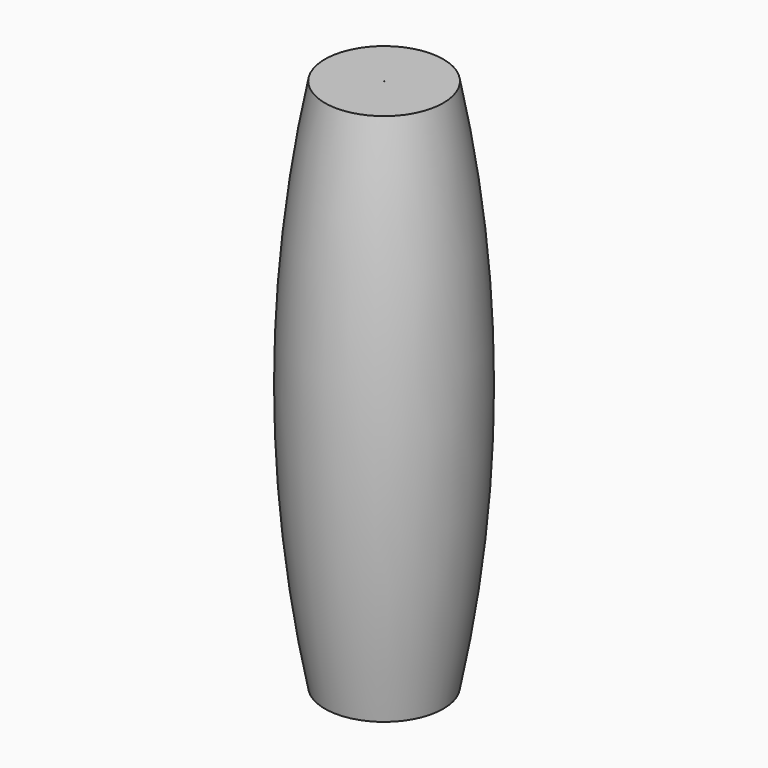
from build123d import *

# Parameters (mm, degrees)
F2_R     = 0.05
F3_DEPTH = 90.001


with BuildPart() as f1:
    # F0 (on Front) → F1 (revolve)
    with BuildSketch(Plane.XZ):
        with BuildLine():
            Line((10, 45), (0, 45))
            Line((0, 45), (0, 35))
            ThreePointArc((0, 35), (7.801535, 31.82176), (11.591531, 24.298391))
            ThreePointArc((11.591531, 24.298391), (12.905056, 0), (11.591531, -24.298391))
            ThreePointArc((11.591531, -24.298391), (7.801535, -31.82176), (0, -35))
            Line((0, -35), (0, -45))
            Line((0, -45), (10, -45))
            ThreePointArc((10, -45), (14.505056, 0), (10, 45))
        make_face()
    revolve(axis=Axis((0, 0, 40), (0, 0, -1)))

    # F2 (on face) → F3 (cut, through all)
    with BuildSketch(Plane.XY.offset(45)):
        Circle(F2_R)
    extrude(amount=-F3_DEPTH, mode=Mode.SUBTRACT)


solid = f1.part
